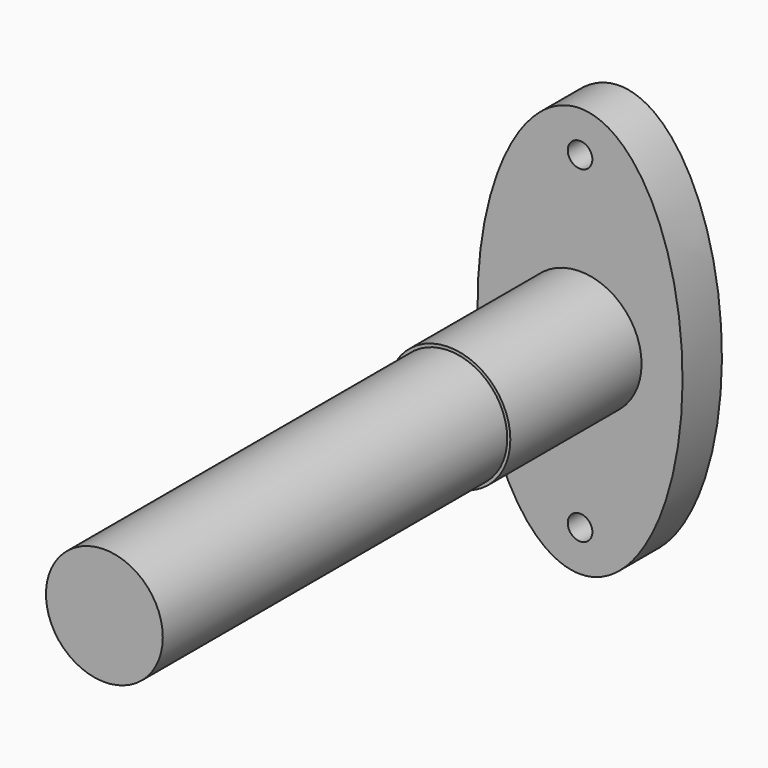
from build123d import *

# Parameters (mm, degrees)
F0_R     = 1.5
F1_DEPTH = 6
F2_R     = 7.5
F3_DEPTH = 20
F4_R     = 7.121244
F5_DEPTH = 52.5


with BuildPart() as f1:
    # F0 (on Front) → F1 (new body)
    with BuildSketch(Plane.XZ):
        with BuildLine():
            add(Edge.make_bspline(
                [(34.649603, 1.322946), (56.300238, 1.322946), (45.474921, 38.822946), (34.649603, 76.322946), (23.824286, 38.822946), (12.998968, 1.322946), (34.649603, 1.322946)],
                knots=[0, 0, 0, 2.094395, 2.094395, 4.18879, 4.18879, 6.283185, 6.283185, 6.283185], degree=2, weights=[1, 0.5, 1, 0.5, 1, 0.5, 1]))
        make_face()
        with Locations((34.649603, 6.322946)):
            Circle(F0_R, mode=Mode.SUBTRACT)
        with Locations((34.649603, 46.322946)):
            Circle(F0_R, mode=Mode.SUBTRACT)
    extrude(amount=F1_DEPTH)

    # F2 (on face) → F3 (join)
    with BuildSketch(Plane.XZ.offset(6)):
        with Locations((34.649603, 26.322946)):
            Circle(F2_R)
    extrude(amount=F3_DEPTH)

    # F4 (on face) → F5 (join)
    with BuildSketch(Plane.XZ.offset(26)):
        with Locations((34.649603, 26.322946)):
            Circle(F4_R)
    extrude(amount=F5_DEPTH)


solid = f1.part
